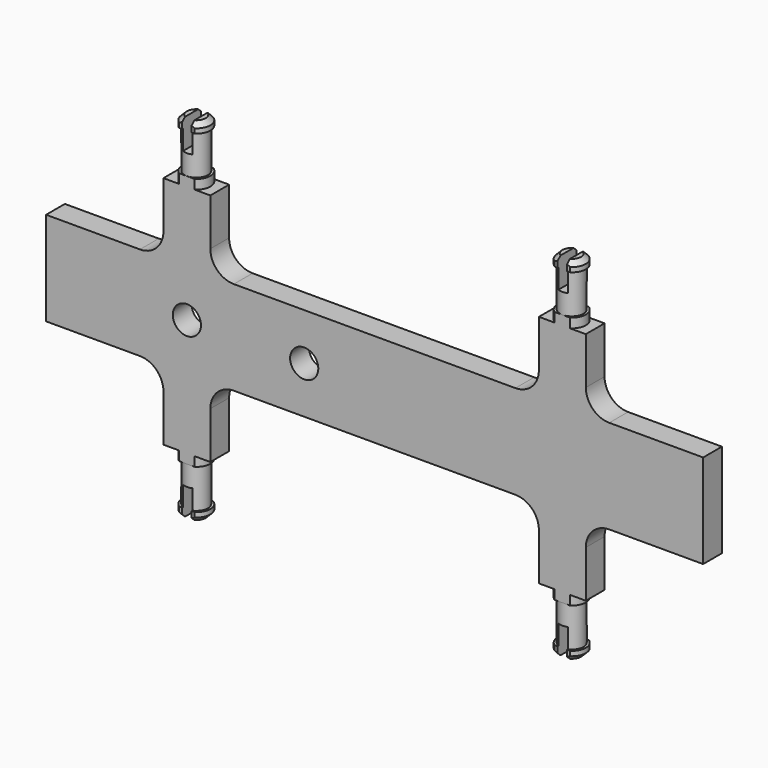
from build123d import *

# Parameters (mm, degrees)
F1_DEPTH  = 2.5
F2_T      = -2
F5_SIZE   = 1
F6_W      = 170
F6_H      = 5
F7_DEPTH  = 37.501
F9_W      = 2
F9_H      = 10.5037409129
F10_DEPTH = 6.3
F13_R     = 5
F14_DEPTH = 2.5
F17_D     = 6


with BuildPart() as f1:
    # F0 (on Front) → F1 (new body, symmetric)
    with BuildSketch(Plane.XZ):
        with BuildLine():
            Line((0, 10), (0, 0))
            Line((0, 0), (70, 0))
            Line((70, 0), (70, 10))
            Line((70, 10), (50, 10))
            ThreePointArc((50, 10), (46.4644660941, 11.4644660941), (45, 15))
            Line((45, 15), (45, 25))
            Line((45, 25), (35, 25))
            Line((35, 25), (35, 15))
            ThreePointArc((35, 15), (33.5355339059, 11.4644660941), (30, 10))
            Line((30, 10), (0, 10))
        make_face()
    extrude(amount=F1_DEPTH, both=True)

    # F2
    f2_openings = [f1.faces().sort_by_distance(p)[0] for p in [
        (35.933685, 2.5, 7.254637),
    ]]
    offset(amount=F2_T, openings=f2_openings)

    # F3 (on Front) → F4 (revolve)
    with BuildSketch(Plane.XZ):
        Polygon((40, 37.5), (40, 25), (43, 25), (43, 27), (42.5, 27), (42.5, 35.5), (43, 35.5), (43, 37.5), align=None)
    revolve(axis=Axis((40, 0, 31.25), (0, 0, 1)))

    # F5
    f5_edges = [f1.edges().sort_by_distance(p)[0] for p in [
        (37, 0, 37.5),
    ]]
    chamfer(f5_edges, length=F5_SIZE)

    # F6 (on Top) → F7 (intersect, through all)
    with BuildSketch(Plane.XY):
        with Locations((1.8975138664, 0)):
            Rectangle(F6_W, F6_H)
    extrude(amount=F7_DEPTH, mode=Mode.INTERSECT)

    # F9 (on offset) → F10 (cut)
    with BuildSketch(Plane.XY.offset(37.6)):
        with Locations((40, 0)):
            Rectangle(F9_W, F9_H)
    extrude(amount=-F10_DEPTH, mode=Mode.SUBTRACT)

    # F11: F1 across plane


with BuildPart() as f1_1:
    add(f1.part)
    add(f1.part.mirror(Plane.XY))

    # F12: F1 across plane


with BuildPart() as f1_2:
    add(f1_1.part)
    add(f1_1.part.mirror(Plane.YZ))

    # F13 (on Front) → F14 (join, symmetric)
    with BuildSketch(Plane.XZ):
        with Locations((-40, 0)):
            Circle(F13_R)
        with Locations((-15, 0)):
            Circle(F13_R)
    extrude(amount=F14_DEPTH, both=True)

    # F17 (through all)
    with Locations(Plane.XZ.offset(10)):
        with Locations((-40, 0), (-15, 0)):
            Hole(F17_D / 2)


solid = f1_2.part
